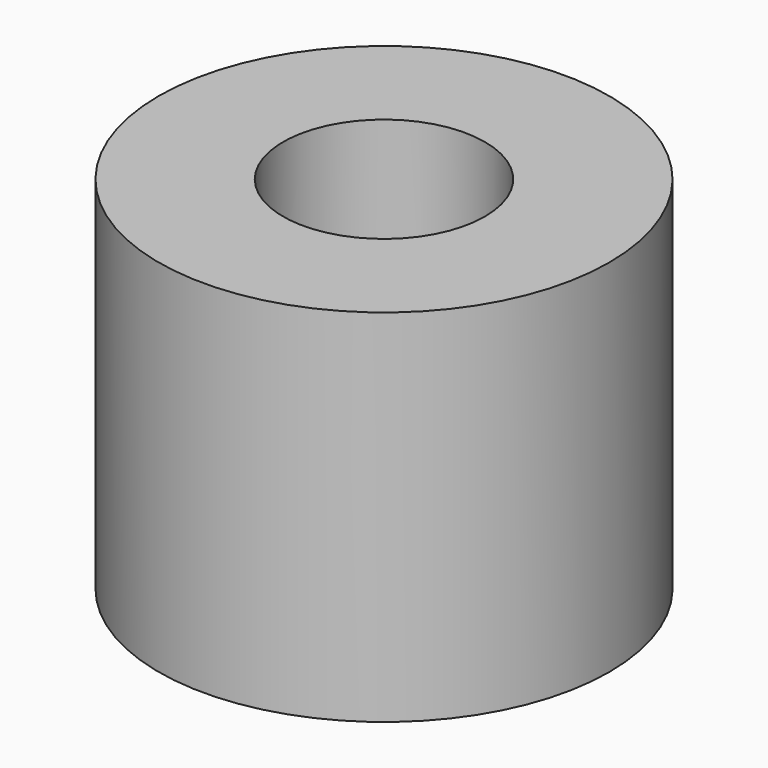
from build123d import *

# Parameters (mm, degrees)
F0_R     = 7.9375
F0_R_2   = 3.556
F1_DEPTH = 12.7
F2_R     = 1.27
F3_DEPTH = 7.9385
F5_R     = 3.556
F6_DEPTH = 5.334


with BuildPart() as f1:
    # F0 (on Top) → F1 (new body)
    with BuildSketch(Plane.XY):
        Circle(F0_R)
        Circle(F0_R_2, mode=Mode.SUBTRACT)
    extrude(amount=F1_DEPTH)

    # F2 (on Front) → F3 (cut, through all)
    with BuildSketch(Plane.XZ):
        with Locations((0, 6.35)):
            Circle(F2_R)
    extrude(amount=-F3_DEPTH, mode=Mode.SUBTRACT)

    # F5 (on offset) → F6 (cut)
    with BuildSketch(Plane.XZ.offset(-11.1125)):
        with Locations((0, 6.35)):
            Circle(F5_R)
    extrude(amount=F6_DEPTH, mode=Mode.SUBTRACT)


solid = f1.part
